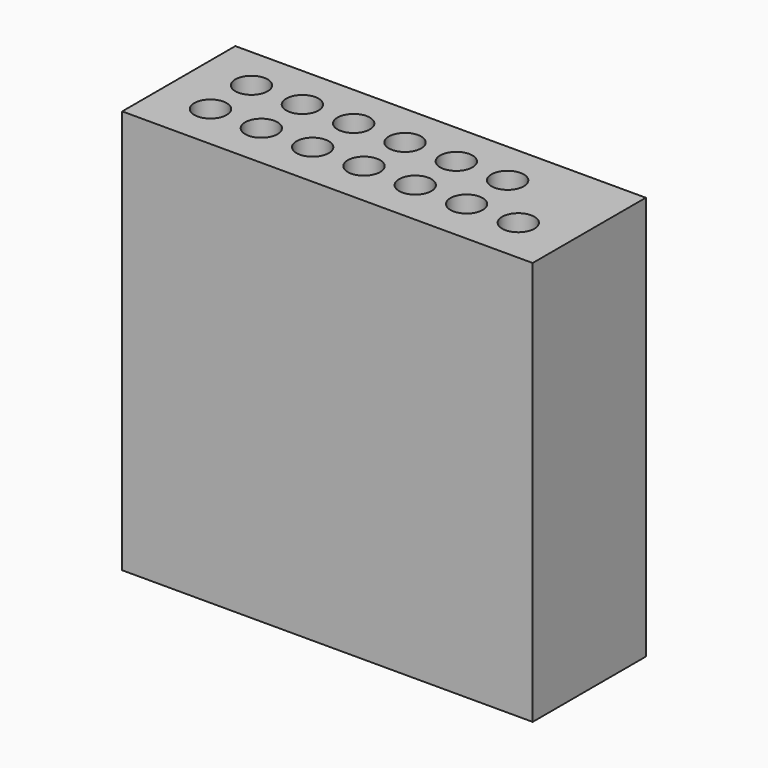
from build123d import *

# Parameters (mm, degrees)
BOX_W        = 20.32
BOX_H        = 7
BOX_DEPTH    = 20
SKETCH_R     = 0.8
POCKET_DEPTH = 20


with BuildPart() as part:
    # Box → Box (new body)
    with BuildSketch(Plane(origin=(-3.2, 0, 0), x_dir=(1, 0, 0), z_dir=(0, 0, 1))):
        with Locations((10.16, 3.5)):
            Rectangle(BOX_W, BOX_H)
    extrude(amount=BOX_DEPTH)

    # Sketch → Pocket (cut)
    with BuildSketch(Plane(origin=(-3.2, 0, 20), x_dir=(1, 0, 0), z_dir=(0, 0, 1))):
        with Locations((5.08, 2.26)):
            Circle(SKETCH_R)
        with Locations((7.62, 2.26)):
            Circle(SKETCH_R)
        with Locations((10.16, 2.26)):
            Circle(SKETCH_R)
        with Locations((12.7, 2.26)):
            Circle(SKETCH_R)
        with Locations((15.24, 2.26)):
            Circle(SKETCH_R)
        with Locations((5.08, 4.8)):
            Circle(SKETCH_R)
        with Locations((7.62, 4.8)):
            Circle(SKETCH_R)
        with Locations((10.16, 4.8)):
            Circle(SKETCH_R)
        with Locations((12.7, 4.8)):
            Circle(SKETCH_R)
        with Locations((15.24, 4.8)):
            Circle(SKETCH_R)
        with Locations((2.54, 2.286478)):
            Circle(SKETCH_R)
        with Locations((2.54, 4.826478)):
            Circle(SKETCH_R)
        with Locations((17.78, 2.286478)):
            Circle(SKETCH_R)
    extrude(amount=-POCKET_DEPTH, mode=Mode.SUBTRACT)


solid = part.part
